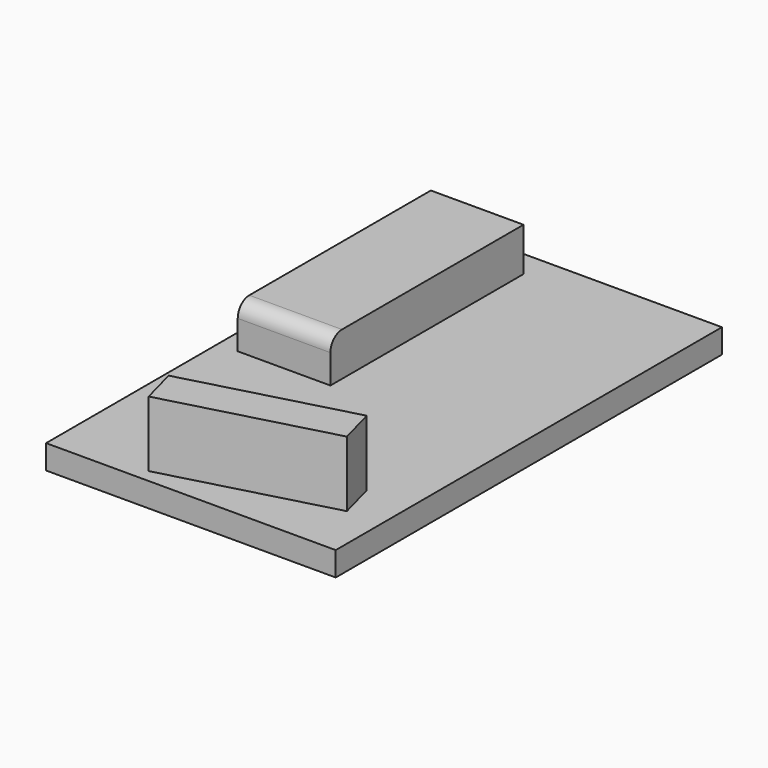
from build123d import *

# Parameters (mm, degrees)
F0_W     = 300
F0_H     = 500
F1_DEPTH = 25
F2_W     = 96
F2_H     = 250
F3_DEPTH = 45
F5_DEPTH = 68
F6_R     = 15


with BuildPart() as f1:
    # F0 (on Top) → F1 (new body)
    with BuildSketch(Plane.XY):
        with Locations((-100.745436, 14.865042)):
            Rectangle(F0_W, F0_H)
    extrude(amount=F1_DEPTH)

    # F2 (on face) → F3 (join)
    with BuildSketch(Plane.XY.offset(25)):
        with Locations((-182.168748, 112.275026)):
            Rectangle(F2_W, F2_H)
    extrude(amount=F3_DEPTH)

    # F4 (on face) → F5 (join)
    with BuildSketch(Plane.XY.offset(25)):
        Polygon((3.368272, -137.631641), (-165.668748, -182.924974), (-155.315986, -221.562007), (13.721034, -176.268674), align=None)
    extrude(amount=F5_DEPTH)

    # F6
    f6_edges = [f1.edges().sort_by_distance(p)[0] for p in [
        (-182.168748, -12.724974, 70),
    ]]
    fillet(f6_edges, radius=F6_R)


solid = f1.part
